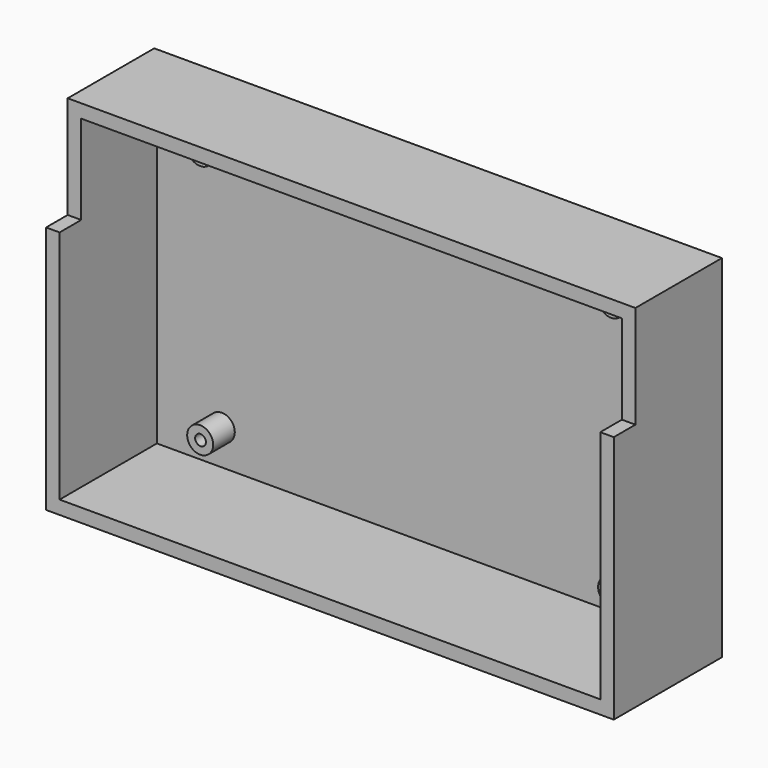
from build123d import *

# Parameters (mm, degrees)
F0_W      = 105
F0_H      = 65
F1_DEPTH  = 25
F3_DEPTH  = 22.5
F4_W      = 5
F4_H      = 19
F5_DEPTH  = 2.5
F6_W      = 5
F6_H      = 19
F7_DEPTH  = 2.5
F9_DEPTH  = 2.5
F10_R     = 2.403973
F11_DEPTH = 5
F12_R     = 0.874474
F12_R_2   = 0.999999
F12_R_3   = 0.846332
F12_R_4   = 1
F13_DEPTH = 7


with BuildPart() as f1:
    # F0 (on Front) → F1 (new body)
    with BuildSketch(Plane.XZ):
        with Locations((10.83879, -5.564056)):
            Rectangle(F0_W, F0_H)
    extrude(amount=F1_DEPTH)

    # F2 (on face) → F3 (cut)
    with BuildSketch(Plane.XZ.offset(25)):
        Polygon((12.475623, 24.435944), (-39.16121, 24.435944), (-39.16121, -11.767991), (-39.16121, -35.564056), (11.927005, -35.564056), (60.83879, -35.564056), (60.83879, -26.717814), (60.83879, 24.435944), align=None)
    extrude(amount=-F3_DEPTH, mode=Mode.SUBTRACT)

    # F4 (on face) → F5 (cut)
    with BuildSketch(Plane(origin=(-41.66121, 0, 0), x_dir=(0, -1, 0), z_dir=(-1, 0, 0))):
        with Locations((22.5, 17.435944)):
            Rectangle(F4_W, F4_H)
    extrude(amount=-F5_DEPTH, mode=Mode.SUBTRACT)

    # F6 (on face) → F7 (cut)
    with BuildSketch(Plane.YZ.offset(63.33879)):
        with Locations((-22.5, 17.435944)):
            Rectangle(F6_W, F6_H)
    extrude(amount=-F7_DEPTH, mode=Mode.SUBTRACT)

    # F8 (on face) → F9 (cut)
    with BuildSketch(Plane.XY.offset(26.935944)):
        Polygon((-39.16121, -20), (-39.16121, -22.5), (-39.16121, -25), (60.83879, -25), (60.83879, -20), align=None)
    extrude(amount=-F9_DEPTH, mode=Mode.SUBTRACT)

    # F10 (on face) → F11 (join)
    with BuildSketch(Plane.XZ.offset(2.5)):
        with Locations((48.83879, 17.935944)):
            Circle(F10_R)
        with Locations((-27.16121, -29.064056)):
            Circle(F10_R)
        with Locations((48.83879, -29.064056)):
            Circle(F10_R)
        with Locations((-27.16121, 17.935944)):
            Circle(F10_R)
    extrude(amount=F11_DEPTH)

    # F12 (on face) → F13 (cut)
    with BuildSketch(Plane.XZ.offset(7.5)):
        with Locations((48.756924, 17.979905)):
            Circle(F12_R)
        with Locations((48.756924, -29.064033)):
            Circle(F12_R_2)
        with Locations((-27.16121, 17.935944)):
            Circle(F12_R_3)
        with Locations((-27.089426, -29.064033)):
            Circle(F12_R_4)
    extrude(amount=-F13_DEPTH, mode=Mode.SUBTRACT)


solid = f1.part
